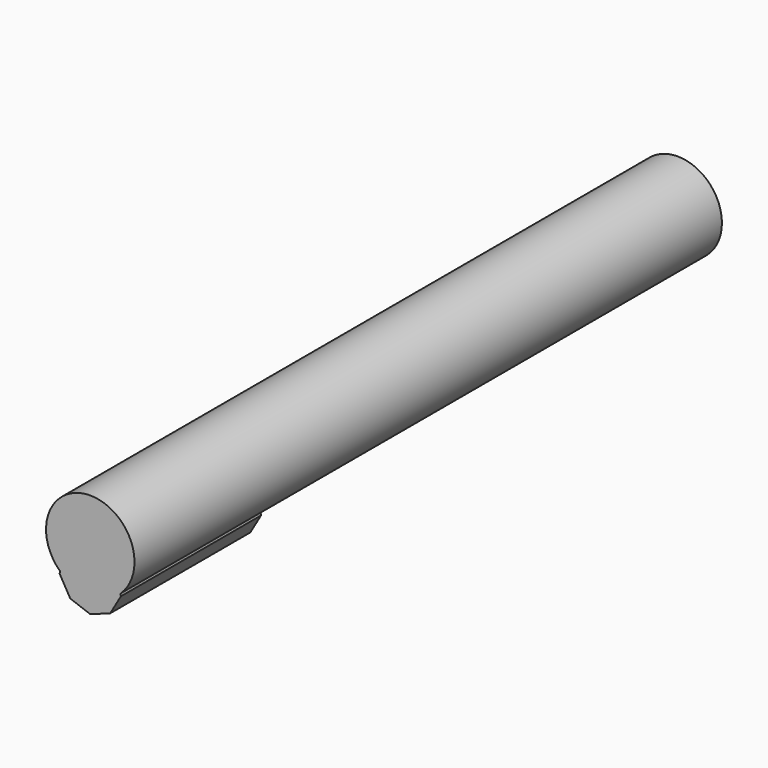
from build123d import *

# Parameters (mm, degrees)
F0_R      = 2.5
F1_DEPTH  = 20.7518
F1_FACE_R = 2.5
F3_DEPTH  = 9.9


with BuildPart() as f1:
    # F0 (on Front) → F1 (new body, symmetric)
    with BuildSketch(Plane.XZ):
        Circle(F0_R)
    extrude(amount=F1_DEPTH, both=True)

    # F2 (on face) + F1_face (on face) → F3 (join)
    with BuildSketch(Plane.XZ.offset(20.7518)):
        with BuildLine():
            Line((1.73146, -1.957443), (1.708179, -1.825411))
            ThreePointArc((1.708179, -1.825411), (0, -2.5), (-1.708179, -1.825411))
            Line((-1.708179, -1.825411), (-1.73146, -1.957443))
            Line((-1.73146, -1.957443), (-1.13013, -2.998977))
            Line((-1.13013, -2.998977), (0, -3.410311))
            Line((0, -3.410311), (1.13013, -2.998977))
            Line((1.13013, -2.998977), (1.73146, -1.957443))
        make_face()
        with BuildLine():
            ThreePointArc((1.478944, -0.736405), (1.608258, -0.378249), (1.65214, 0))
            ThreePointArc((1.65214, 0), (1.6318, 0.258452), (1.571279, 0.510539))
            ThreePointArc((1.571279, 0.510539), (0.971104, 1.336609), (0, 1.65214))
            ThreePointArc((0, 1.65214), (-0.971104, 1.336609), (-1.571279, 0.510539))
            ThreePointArc((-1.571279, 0.510539), (-1.647629, -0.122005), (-1.478944, -0.736405))
            Line((-1.478944, -0.736405), (-0.60133, 0))
            Line((-0.60133, 0), (0.60133, 0))
            Line((0.60133, 0), (1.478944, -0.736405))
        make_face()
        with BuildLine():
            Line((1.73146, -1.957443), (1.708179, -1.825411))
            ThreePointArc((1.708179, -1.825411), (0, -2.5), (-1.708179, -1.825411))
            Line((-1.708179, -1.825411), (-1.73146, -1.957443))
            Line((-1.73146, -1.957443), (-1.13013, -2.998977))
            Line((-1.13013, -2.998977), (0, -3.410311))
            Line((0, -3.410311), (1.13013, -2.998977))
            Line((1.13013, -2.998977), (1.73146, -1.957443))
        make_face()
        with BuildLine():
            ThreePointArc((0.971104, -1.336609), (1.261247, -1.067156), (1.478944, -0.736405))
            Line((1.478944, -0.736405), (0.60133, 0))
            Line((0.60133, 0), (-0.60133, 0))
            Line((-0.60133, 0), (-1.478944, -0.736405))
            ThreePointArc((-1.478944, -0.736405), (-1.261247, -1.067156), (-0.971104, -1.336609))
            ThreePointArc((-0.971104, -1.336609), (0, -1.65214), (0.971104, -1.336609))
        make_face()
        with BuildLine():
            ThreePointArc((0, 1.65214), (0.971104, 1.336609), (1.571279, 0.510539))
            Line((1.571279, 0.510539), (1.20035, 1.65214))
            Line((1.20035, 1.65214), (0, 1.65214))
        make_face()
        with BuildLine():
            ThreePointArc((-1.571279, 0.510539), (-0.971104, 1.336609), (0, 1.65214))
            Line((0, 1.65214), (-1.20035, 1.65214))
            Line((-1.20035, 1.65214), (-1.571279, 0.510539))
        make_face()
        with BuildLine():
            Line((-1.548075, -0.917415), (-0.971104, -1.336609))
            ThreePointArc((-0.971104, -1.336609), (-1.261247, -1.067156), (-1.478944, -0.736405))
            Line((-1.478944, -0.736405), (-1.522621, -0.773055))
            Line((-1.522621, -0.773055), (-1.548075, -0.917415))
        make_face()
        with BuildLine():
            ThreePointArc((0, 1.65214), (0.971104, 1.336609), (1.571279, 0.510539))
            Line((1.571279, 0.510539), (1.20035, 1.65214))
            Line((1.20035, 1.65214), (0, 1.65214))
        make_face()
        with BuildLine():
            ThreePointArc((-1.571279, 0.510539), (-0.971104, 1.336609), (0, 1.65214))
            Line((0, 1.65214), (-1.20035, 1.65214))
            Line((-1.20035, 1.65214), (-1.571279, 0.510539))
        make_face()
        with BuildLine():
            Line((0, -2.042157), (0.971104, -1.336609))
            ThreePointArc((0.971104, -1.336609), (0, -1.65214), (-0.971104, -1.336609))
            Line((-0.971104, -1.336609), (0, -2.042157))
        make_face()
        with BuildLine():
            ThreePointArc((-1.478944, -0.736405), (-1.647629, -0.122005), (-1.571279, 0.510539))
            Line((-1.571279, 0.510539), (-1.942207, -0.631061))
            Line((-1.942207, -0.631061), (-1.548075, -0.917415))
            Line((-1.548075, -0.917415), (-1.522621, -0.773055))
            Line((-1.522621, -0.773055), (-1.478944, -0.736405))
        make_face()
    with BuildSketch(Plane(origin=(0, 20.7518, 0), x_dir=(1, 0, 0), z_dir=(0, 1, 0))):
        Circle(F1_FACE_R)
    extrude(amount=-F3_DEPTH)


solid = f1.part
